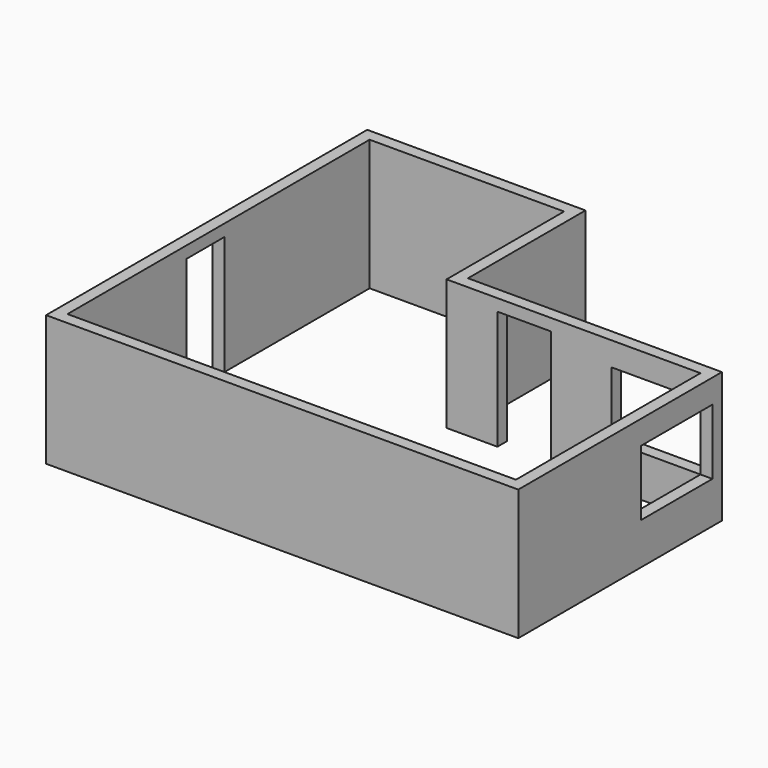
from build123d import *

# Parameters (mm, degrees)
F1_DEPTH  = 2200
F2_W      = 900
F2_H      = 2000
F3_DEPTH  = 300
F4_W      = 800
F4_H      = 2000
F5_DEPTH  = 300
F2_W_2    = 1700
F2_H_2    = 1100
F6_DEPTH  = 200
F7_W      = 1500
F7_H      = 1100
F8_DEPTH  = 200
F9_W      = 200
F9_H      = 200
F10_DEPTH = 1100


with BuildPart() as f1:
    # F0 (on Top) → F1 (new body)
    with BuildSketch(Plane.XY):
        Polygon((3670, 0), (0, 0), (0, -6750), (7940, -6750), (7940, -4170), (7940, -2470), (6240, -2470), (3670, -2470), align=None)
        Polygon((3470, -2670), (7740, -2670), (7740, -6550), (200, -6550), (200, -200), (3470, -200), align=None, mode=Mode.SUBTRACT)
    extrude(amount=F1_DEPTH)

    # F2 (on face) → F3 (cut)
    with BuildSketch(Plane(origin=(0, -2470, 0), x_dir=(-1, 0, 0), z_dir=(0, 1, 0))):
        with Locations((-4774.972248, 1000)):
            Rectangle(F2_W, F2_H)
    extrude(amount=-F3_DEPTH, mode=Mode.SUBTRACT)

    # F4 (on face) → F5 (cut)
    with BuildSketch(Plane.YZ.offset(200)):
        with Locations((-3649.875259, 1000)):
            Rectangle(F4_W, F4_H)
    extrude(amount=-F5_DEPTH, mode=Mode.SUBTRACT)

    # F2 (on face) → F6 (cut)
    with BuildSketch(Plane(origin=(0, -2470, 0), x_dir=(-1, 0, 0), z_dir=(0, 1, 0))):
        with Locations((-7090, 1250)):
            Rectangle(F2_W_2, F2_H_2)
    extrude(amount=-F6_DEPTH, mode=Mode.SUBTRACT)

    # F7 (on face) → F8 (cut)
    with BuildSketch(Plane.YZ.offset(7940)):
        with Locations((-3420, 1250)):
            Rectangle(F7_W, F7_H)
    extrude(amount=-F8_DEPTH, mode=Mode.SUBTRACT)

    # F9 (on face) → F10 (join)
    with BuildSketch(Plane.XY.offset(700)):
        with Locations((7840, -2570)):
            Rectangle(F9_W, F9_H)
    extrude(amount=F10_DEPTH)


solid = f1.part
